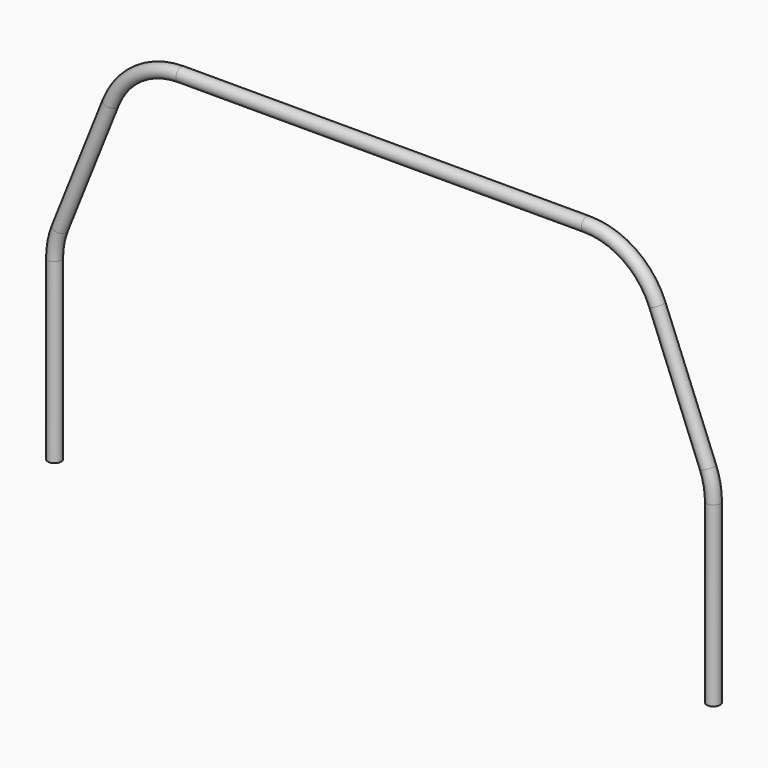
from build123d import *

# Parameters (mm, degrees)
F1_R   = 13.335
F1_R_2 = 10.6172


with BuildPart() as f2:
    # F2: sweep along a path in F0
    with BuildLine(Plane.XZ) as f2_path:
        Line((660.4, 0), (660.4, 355.6))
        ThreePointArc((660.4, 355.6), (657.6501533379, 384.419986224), (649.4998476909, 412.1999390764))
        Line((649.4998476909, 412.1999390764), (547.8998476909, 666.1999390764))
        ThreePointArc((547.8998476909, 666.1999390764), (491.8398305381, 735.7974459235), (406.4, 762))
        Line((406.4, 762), (0, 762))
        Line((0, 762), (-406.4, 762))
        ThreePointArc((-406.4, 762), (-491.8398305381, 735.7974459235), (-547.8998476909, 666.1999390764))
        Line((-547.8998476909, 666.1999390764), (-649.4998476909, 412.1999390764))
        ThreePointArc((-649.4998476909, 412.1999390764), (-657.6501533379, 384.419986224), (-660.4, 355.6))
        Line((-660.4, 355.6), (-660.4, 0))
    # F1 (on Top) → F2 (sweep)
    with BuildSketch(Plane.XY):
        with Locations((-660.4, 0)):
            Circle(F1_R)
        with Locations((-660.4, 0)):
            Circle(F1_R_2, mode=Mode.SUBTRACT)
    sweep(path=f2_path.line)


solid = f2.part
